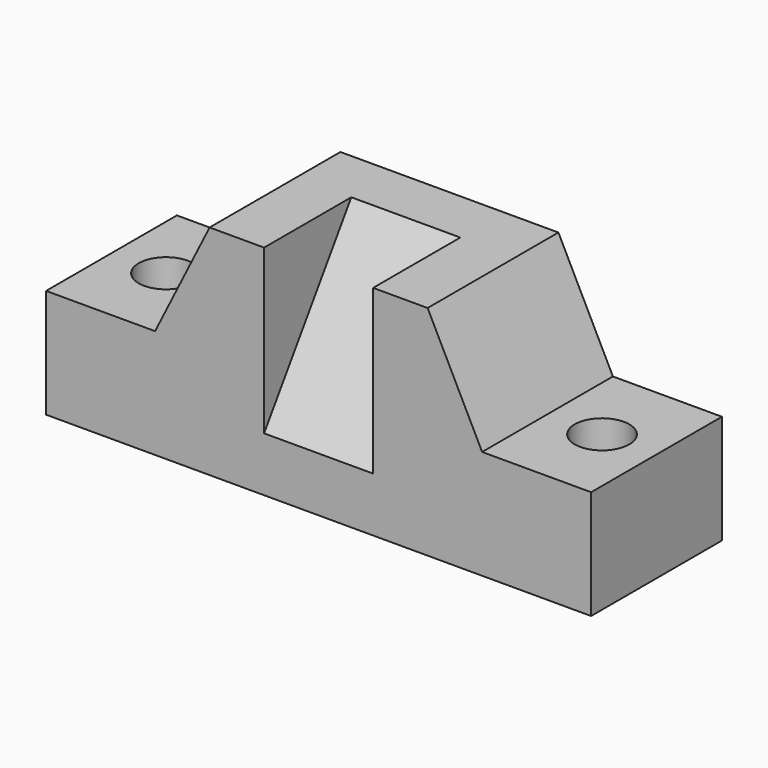
from build123d import *

# Parameters (mm, degrees)
F0_W      = 127
F0_H      = 50.8
F1_DEPTH  = 38.1
F2_W      = 25.4
F2_H      = 25.4
F3_DEPTH  = 38.101
F5_DEPTH  = 38.101
F8_R      = 6.35
F7_R      = 6.35
F9_DEPTH  = 25.401
F6_W      = 25.4
F6_H      = 38.1
F10_DEPTH = 25.4
F12_DEPTH = 25.4


with BuildPart() as f1:
    # F0 (on Front) → F1 (new body)
    with BuildSketch(Plane.XZ):
        with Locations((14.029513, -1.326698)):
            Rectangle(F0_W, F0_H)
    extrude(amount=F1_DEPTH)

    # F2 (on face) → F3 (cut, through all)
    with BuildSketch(Plane.XZ.offset(38.1)):
        with Locations((-36.770487, 11.373302)):
            Rectangle(F2_W, F2_H)
        with Locations((64.829513, 11.373302)):
            Rectangle(F2_W, F2_H)
    extrude(amount=-F3_DEPTH, mode=Mode.SUBTRACT)

    # F4 (on face) → F5 (cut, through all)
    with BuildSketch(Plane.XZ.offset(38.1)):
        Polygon((-24.070487, 24.073302), (-24.070487, -1.326698), (-11.370487, 24.073302), align=None)
        Polygon((52.129513, 24.073302), (39.429513, 24.073302), (52.129513, -1.326698), align=None)
    extrude(amount=-F5_DEPTH, mode=Mode.SUBTRACT)

    # F8 (on face) + F7 (on face) → F9 (cut, through all)
    with BuildSketch(Plane.XY.offset(-1.326698)):
        with Locations((64.829513, -19.05)):
            Circle(F8_R)
    with BuildSketch(Plane.XY.offset(-1.326698)):
        with Locations((-36.770487, -19.05)):
            Circle(F7_R)
    extrude(amount=-F9_DEPTH, mode=Mode.SUBTRACT)

    # F6 (on face) → F10 (cut)
    with BuildSketch(Plane.XZ.offset(38.1)):
        with Locations((14.029513, 5.023302)):
            Rectangle(F6_W, F6_H)
    extrude(amount=-F10_DEPTH, mode=Mode.SUBTRACT)

    # F11 (on face) → F12 (join)
    with BuildSketch(Plane.YZ.offset(1.329513)):
        Polygon((-12.7, 24.073302), (-38.1, -14.026698), (-12.7, -14.026698), align=None)
    extrude(amount=F12_DEPTH)


solid = f1.part
